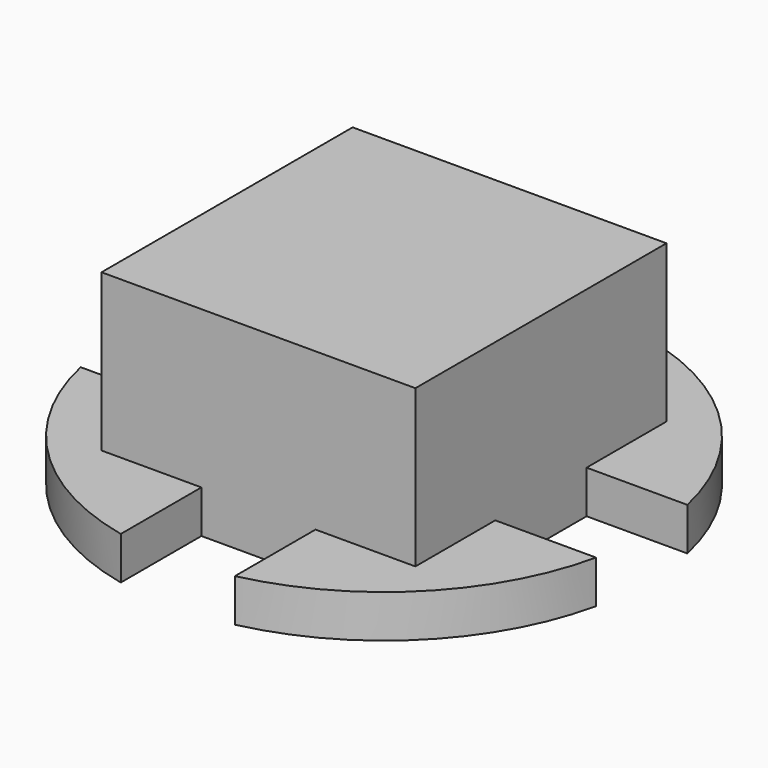
from build123d import *

# Parameters (mm, degrees)
SKETCH_W           = 4.4
SKETCH_H           = 4.4
PAD_DEPTH          = 2.8
SKETCH001_R        = 3.7
PAD001_DEPTH       = 0.6
SKETCH002_W        = 1.6
SKETCH002_H        = 3
POCKET_DEPTH       = 22.267564
POLARPATTERN_COUNT = 4
SKETCH003_W        = 3.8
SKETCH003_H        = 3.8
POCKET001_DEPTH    = 1.9


with BuildPart() as part:
    # Sketch → Pad (new body)
    with BuildSketch(Plane.XY):
        Rectangle(SKETCH_W, SKETCH_H)
    extrude(amount=PAD_DEPTH)

    # Sketch001 → Pad001 (join)
    with BuildSketch(Plane.XY):
        Circle(SKETCH001_R)
    extrude(amount=PAD001_DEPTH)

    # Sketch002 (on DatumPlane) → Pocket (cut, through all)
    with BuildSketch(Plane.XY.offset(0.6)):
        with Locations((0, 3.7)):
            Rectangle(SKETCH002_W, SKETCH002_H)
    pocket = extrude(amount=-POCKET_DEPTH, mode=Mode.SUBTRACT)

    # PolarPattern: Pocket ×4 about axis
    polarpattern_axis = Axis((0, 0, 0.6), (0, 0, 1))
    for i in range(1, POLARPATTERN_COUNT):
        add(pocket.rotate(polarpattern_axis, i * 360 / POLARPATTERN_COUNT), mode=Mode.SUBTRACT)

    # Sketch003 (on DatumPlane) → Pocket001 (cut)
    with BuildSketch(Plane(origin=(0, 0, 0), x_dir=(1, 0, 0), z_dir=(0, 0, -1))):
        Rectangle(SKETCH003_W, SKETCH003_H)
    extrude(amount=-POCKET001_DEPTH, mode=Mode.SUBTRACT)


solid = part.part
